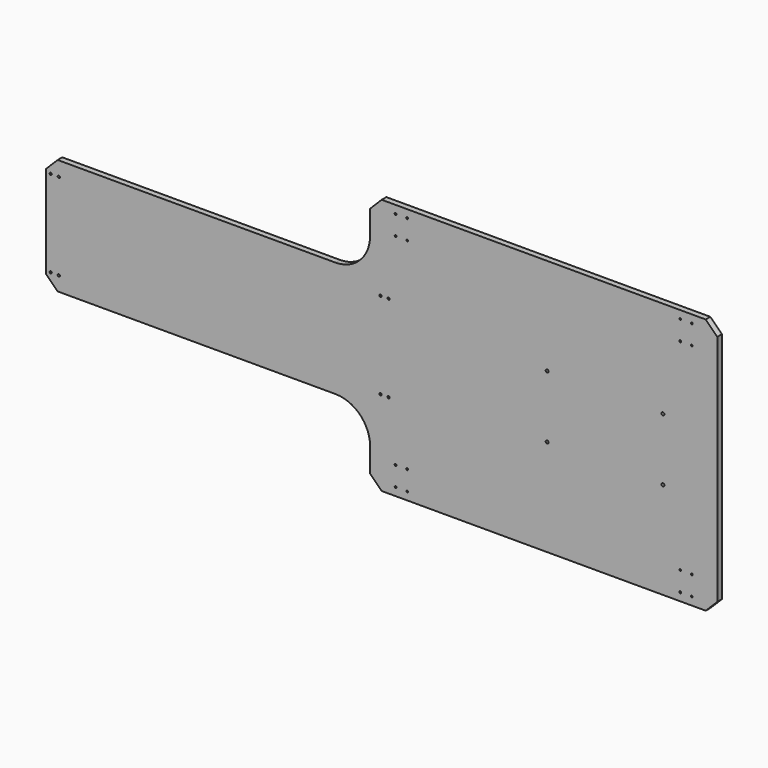
from build123d import *

# Parameters (mm, degrees)
F1_DEPTH = 12.7
F2_SIZE  = 25.4
F4_D     = 3.96875
F6_D     = 6.35
F8_D     = 4.826


with BuildPart() as f1:
    # F0 (on Front) → F1 (new body)
    with BuildSketch(Plane.XZ):
        with BuildLine():
            Line((0, 254), (0, 0))
            Line((0, 0), (635, 0))
            ThreePointArc((635, 0), (688.881537, -22.318463), (711.2, -76.2))
            Line((711.2, -76.2), (711.2, -154.3812))
            Line((711.2, -154.3812), (1473.2, -154.3812))
            Line((1473.2, -154.3812), (1473.2, 408.3812))
            Line((1473.2, 408.3812), (711.2, 408.3812))
            Line((711.2, 408.3812), (711.2, 330.2))
            ThreePointArc((711.2, 330.2), (688.881537, 276.318463), (635, 254))
            Line((635, 254), (0, 254))
        make_face()
    extrude(amount=F1_DEPTH)

    # F2
    f2_edges = [f1.edges().sort_by_distance(p)[0] for p in [
        (711.2, -6.35, 408.3812),
        (1473.2, -6.35, 408.3812),
        (1473.2, -6.35, -154.3812),
        (711.2, -6.35, -154.3812),
        (0, -6.35, 0),
        (0, -6.35, 254),
    ]]
    chamfer(f2_edges, length=F2_SIZE)

    # F4 (through all)
    with Locations(Plane.XZ.offset(12.7)):
        with Locations((767.08, 390.9314), (767.08, 348.0562), (792.48, 348.0562), (792.48, 390.9314), (767.08, -94.0562), (767.08, -136.9187), (792.48, -136.9187), (792.48, -94.0562), (1391.92, -94.0562), (1391.92, -136.9187), (1417.32, -136.9187), (1417.32, -94.0562), (1391.92, 348.0562), (1391.92, 390.9314), (1417.32, 390.9314), (1417.32, 348.0562)):
            Hole(F4_D / 2)

    # F6 (through all)
    with Locations(Plane.XZ.offset(12.7)):
        with Locations((1099.82, 195.58), (1099.82, 58.42), (1353.82, 58.42), (1353.82, 195.58)):
            Hole(F6_D / 2)

    # F8 (through all)
    with Locations(Plane.XZ.offset(12.7)):
        with Locations((10.16, 222.25), (27.94, 222.25), (10.16, 31.75), (27.94, 31.75), (734.06, 31.75), (751.84, 222.25), (734.06, 222.25), (751.84, 31.75)):
            Hole(F8_D / 2)


solid = f1.part
